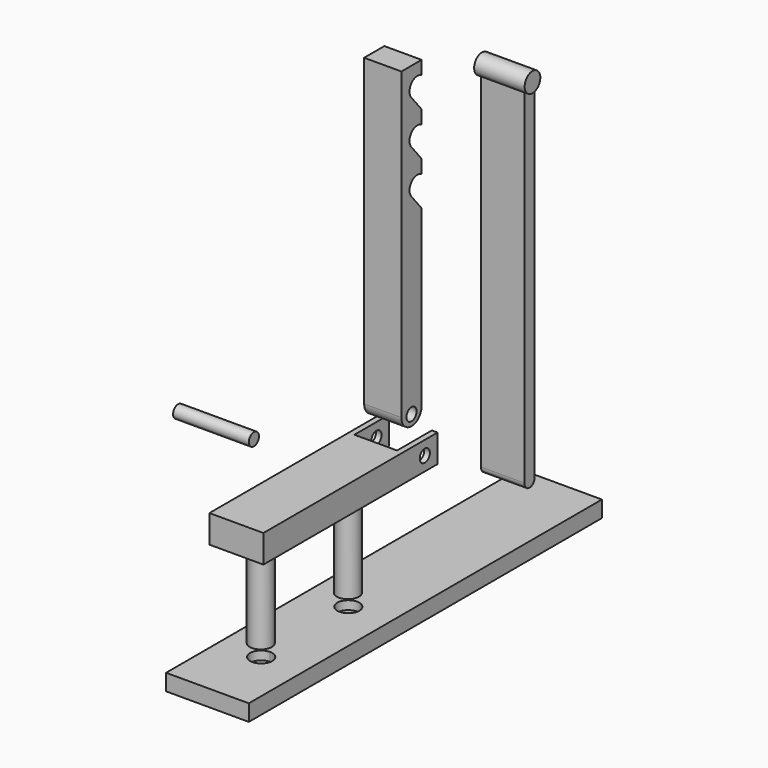
from build123d import *

# Parameters (mm, degrees)
F0_W      = 21.7364291739
F0_H      = 177.8
F1_DEPTH  = 14.732
F3_DEPTH  = 12.7
F5_DEPTH  = 14.732
F7_DEPTH  = 21.7364291739
F8_W      = 127
F8_H      = 16.2404104558
F9_DEPTH  = 15.748
F10_W     = 24.898827076
F10_H     = 23.6973017454
F11_DEPTH = 25.4
F12_R     = 3.6820181577
F13_DEPTH = 25.4
F14_R     = 3.6820221
F15_DEPTH = 35.6616
F16_R     = 3.683
F17_DEPTH = 22.098
F18_DEPTH = 12.7
F19_W     = 257.5100436807
F19_H     = 9.5616877079
F20_DEPTH = 24.13
F21_R     = 6.4243348959
F21_R_2   = 6.4262
F22_DEPTH = 52.578
F24_DEPTH = 5.08
F25_R     = 3.6957
F26_DEPTH = 25.4


with BuildPart() as f1:
    # F0 (on Front) → F1 (new body)
    with BuildSketch(Plane.XZ):
        Rectangle(F0_W, F0_H)
    extrude(amount=F1_DEPTH)

    # F2 (on Right) → F3 (cut, symmetric)
    with BuildSketch(Plane.YZ):
        with BuildLine():
            Line((-7.1501540619, 21.3588847455), (0, 12.6875869924))
            Line((0, 12.6875869924), (0, 20.6046790833))
            ThreePointArc((0, 20.6046790833), (-3.7085370735, 19.7165303881), (-7.1501540619, 21.3588847455))
        make_face()
        with BuildLine():
            Line((-7.1399152545, 72.158876681), (0, 63.4999919355))
            Line((0, 63.4999919355), (0, 71.3980482082))
            ThreePointArc((0, 71.3980482082), (-3.7043613107, 70.5171651302), (-7.1399152545, 72.158876681))
        make_face()
        with BuildLine():
            Line((0, 71.3980482082), (0, 63.4999919355))
            Line((0, 63.4999919355), (2.1877065946, 74.0288003213))
            ThreePointArc((2.1877065946, 74.0288003213), (1.2953501842, 72.5458615111), (0, 71.3980482082))
        make_face()
        with BuildLine():
            Line((-7.1399152545, 46.758876681), (0, 38.0999959677))
            Line((0, 38.0999959677), (0, 45.9980482082))
            ThreePointArc((0, 45.9980482082), (-3.7043613107, 45.1171651302), (-7.1399152545, 46.758876681))
        make_face()
        with BuildLine():
            Line((0, 45.9980482082), (0, 38.0999959677))
            Line((0, 38.0999959677), (2.1600974907, 48.5627565472))
            ThreePointArc((2.1600974907, 48.5627565472), (1.2723793663, 47.11841402), (0, 45.9980482082))
        make_face()
        with BuildLine():
            Line((0, 20.6046790833), (0, 12.6875869924))
            Line((0, 12.6875869924), (2.1389110751, 23.1372037145))
            ThreePointArc((2.1389110751, 23.1372037145), (1.2571076907, 21.712454779), (0, 20.6046790833))
        make_face()
        with BuildLine():
            ThreePointArc((-7.1501540619, 21.3588847455), (-3.7085370735, 19.7165303881), (0, 20.6046790833))
            Line((0, 20.6046790833), (0, 25.4))
            Line((0, 25.4), (-3.1090388075, 25.4))
            Line((-3.1090388075, 25.4), (-8.8240388075, 25.4))
            ThreePointArc((-8.8240388075, 25.4), (-8.3890103358, 23.212964184), (-7.1501540619, 21.3588847455))
        make_face()
        with BuildLine():
            Line((0, 25.4), (0, 20.6046790833))
            ThreePointArc((0, 20.6046790833), (1.2571076907, 21.712454779), (2.1389110751, 23.1372037145))
            Line((2.1389110751, 23.1372037145), (2.6059302097, 25.4188184178))
            ThreePointArc((2.6059302097, 25.4188184178), (1.9078848069, 28.1370974494), (0, 30.1953209167))
            Line((0, 30.1953209167), (0, 25.4))
        make_face()
        with BuildLine():
            Line((2.6059302097, 25.4188184178), (2.1389110751, 23.1372037145))
            ThreePointArc((2.1389110751, 23.1372037145), (2.4879808718, 24.2447529656), (2.6059611925, 25.4))
            ThreePointArc((2.6059611925, 25.4), (2.6059534468, 25.4094092216), (2.6059302097, 25.4188184178))
        make_face()
        with BuildLine():
            Line((-3.1090388075, 25.4), (0, 25.4))
            Line((0, 25.4), (0, 30.1953209167))
            ThreePointArc((0, 30.1953209167), (-5.837872644, 30.4214231939), (-8.8240388075, 25.4))
            Line((-8.8240388075, 25.4), (-3.1090388075, 25.4))
        make_face()
        with BuildLine():
            ThreePointArc((-7.1399152545, 46.758876681), (-3.7043613107, 45.1171651302), (0, 45.9980482082))
            Line((0, 45.9980482082), (0, 50.7999919355))
            Line((0, 50.7999919355), (-3.0988, 50.7999919355))
            Line((-3.0988, 50.7999919355), (-8.8138, 50.7999919355))
            ThreePointArc((-8.8138, 50.7999919355), (-8.3787715283, 48.6129561195), (-7.1399152545, 46.758876681))
        make_face()
        with BuildLine():
            Line((0, 50.7999919355), (0, 45.9980482082))
            ThreePointArc((0, 45.9980482082), (1.2723793663, 47.11841402), (2.1600974907, 48.5627565472))
            Line((2.1600974907, 48.5627565472), (2.6161295599, 50.7716172016))
            ThreePointArc((2.6161295599, 50.7716172016), (2.6161823899, 50.7858045248), (2.6162, 50.7999919355))
            ThreePointArc((2.6162, 50.7999919355), (1.9197090914, 53.5341813035), (0, 55.6019356628))
            Line((0, 55.6019356628), (0, 50.7999919355))
        make_face()
        with BuildLine():
            Line((2.6161295599, 50.7716172016), (2.1600974907, 48.5627565472))
            ThreePointArc((2.1600974907, 48.5627565472), (2.4981622459, 49.644466679), (2.6161295599, 50.7716172016))
        make_face()
        with BuildLine():
            Line((-3.0988, 50.7999919355), (0, 50.7999919355))
            Line((0, 50.7999919355), (0, 55.6019356628))
            ThreePointArc((0, 55.6019356628), (-5.832989368, 55.8185010268), (-8.8138, 50.7999919355))
            Line((-8.8138, 50.7999919355), (-3.0988, 50.7999919355))
        make_face()
        with BuildLine():
            ThreePointArc((-7.1399152545, 72.158876681), (-3.7043613107, 70.5171651302), (0, 71.3980482082))
            ThreePointArc((0, 71.3980482082), (1.2953501842, 72.5458615111), (2.1877065946, 74.0288003213))
            Line((2.1877065946, 74.0288003213), (2.6150529763, 76.085496671))
            ThreePointArc((2.6150529763, 76.085496671), (2.6159132369, 76.1427414306), (2.6162, 76.1999919355))
            ThreePointArc((2.6162, 76.1999919355), (-5.285835816, 81.4799634638), (-7.1399152545, 72.158876681))
        make_face()
        with BuildLine():
            Line((2.6150529763, 76.085496671), (2.1877065946, 74.0288003213))
            ThreePointArc((2.1877065946, 74.0288003213), (2.4966872568, 75.037345231), (2.6150529763, 76.085496671))
        make_face()
    extrude(amount=F3_DEPTH, both=True, mode=Mode.SUBTRACT)

    # F6 (on face) → F7 (join, through all)
    with BuildSketch(Plane.YZ.offset(10.868214587)):
        with BuildLine():
            ThreePointArc((-14.732, -88.9), (-7.366, -96.266), (0, -88.9))
            Line((0, -88.9), (-14.732, -88.9))
        make_face()
    extrude(amount=-F7_DEPTH)

    # F12 (on face) → F13 (cut)
    with BuildSketch(Plane.YZ.offset(10.868214587)):
        with Locations((-7.366, -90.1258736849)):
            Circle(F12_R)
    extrude(amount=-F13_DEPTH, mode=Mode.SUBTRACT)


with BuildPart() as f5:
    # F4 (on Right) → F5 (new body, symmetric)
    with BuildSketch(Plane.YZ):
        with BuildLine():
            ThreePointArc((80.1528692245, 43.850034868), (81.3317096445, 45.6745766072), (81.7445370543, 47.8072253883))
            ThreePointArc((81.7445370543, 47.8072253883), (73.3803672019, 52.871129425), (72.7705653683, 43.112512559))
            ThreePointArc((72.7705653683, 43.112512559), (76.5976607651, 42.1205338678), (80.1528692245, 43.850034868))
        make_face()
    extrude(amount=F5_DEPTH, both=True)

    # F4 (on Right) → F18 (join, symmetric)
    with BuildSketch(Plane.YZ):
        with BuildLine():
            ThreePointArc((80.1528692245, 43.850034868), (76.5976607651, 42.1205338678), (72.7705653683, 43.112512559))
            Line((72.7705653683, 43.112512559), (72.7705653683, -68.5353949666))
            Line((72.7705653683, -68.5353949666), (72.7705653683, -157.6506513908))
            Line((72.7705653683, -157.6506513908), (72.7716081045, -157.6506518927))
            Line((72.7716081045, -157.6506518927), (80.1528692245, -157.6542048473))
            Line((80.1528692245, -157.6542048473), (80.1528692245, -68.5353949666))
            Line((80.1528692245, -68.5353949666), (80.1528692245, 43.850034868))
        make_face()
    extrude(amount=F18_DEPTH, both=True)

    # F25 (on face) → F26 (join)
    with BuildSketch(Plane.YZ.offset(12.7)):
        with Locations((76.4617172964, -157.652428119)):
            Circle(F25_R)
    extrude(amount=-F26_DEPTH)


with BuildPart() as f9:
    # F8 (on Right) → F9 (new body, symmetric)
    with BuildSketch(Plane.YZ):
        with Locations((-57.981248945, -111.2814545631)):
            Rectangle(F8_W, F8_H)
    extrude(amount=F9_DEPTH, both=True)

    # F10 (on face) → F11 (cut)
    with BuildSketch(Plane(origin=(0, 5.518751055, 0), x_dir=(-1, 0, 0), z_dir=(0, 1, 0))):
        with Locations((0, -111.3843470812)):
            Rectangle(F10_W, F10_H)
    extrude(amount=-F11_DEPTH, mode=Mode.SUBTRACT)

    # F14 (on face) → F15 (cut)
    with BuildSketch(Plane.YZ.offset(15.748)):
        with Locations((-3.7575557362, -111.2814545631)):
            Circle(F14_R)
    extrude(amount=-F15_DEPTH, mode=Mode.SUBTRACT)

    # F21 (on face) → F22 (join)
    with BuildSketch(Plane(origin=(0, 0, -119.4016597911), x_dir=(1, 0, 0), z_dir=(0, 0, -1))):
        with Locations((0, 103.7273257971)):
            Circle(F21_R)
        with Locations((0, 40.1950962842)):
            Circle(F21_R_2)
    extrude(amount=F22_DEPTH)


with BuildPart() as f17:
    # F16 (on Right) → F17 (new body, symmetric)
    with BuildSketch(Plane.YZ):
        with Locations((-136.3645493984, -46.8740426004)):
            Circle(F16_R)
    extrude(amount=F17_DEPTH, both=True)


with BuildPart() as f20:
    # F19 (on Right) → F20 (new body, symmetric)
    with BuildSketch(Plane.YZ):
        with Locations((-13.8460956514, -184.1097325087)):
            Rectangle(F19_W, F19_H)
    extrude(amount=F20_DEPTH, both=True)

    # F23 (on face) → F24 (cut)
    with BuildSketch(Plane.XY.offset(-179.3288886547)):
        with BuildLine():
            ThreePointArc((0, -96.9800951803), (-4.5440095973, -107.9503047776), (6.4262, -103.4062951803))
            ThreePointArc((6.4262, -103.4062951803), (4.5440095973, -98.8622855831), (0, -96.9800951803))
        make_face()
        with BuildLine():
            ThreePointArc((6.4262, -39.8740625803), (-4.5440095973, -35.3300529831), (0, -46.3002625803))
            ThreePointArc((0, -46.3002625803), (4.5440095973, -44.4180721776), (6.4262, -39.8740625803))
        make_face()
    extrude(amount=-F24_DEPTH, mode=Mode.SUBTRACT)


solid = Compound([f1.part, f5.part, f9.part, f17.part, f20.part])
